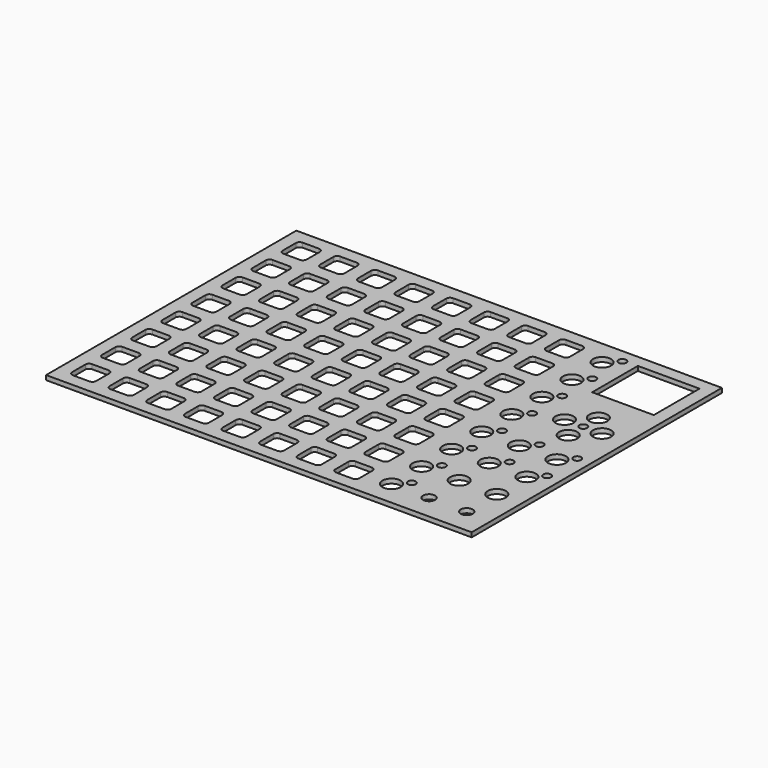
from build123d import *

# Parameters (mm, degrees)
BOX005_W          = 4
BOX005_H          = 200
BOX005_DEPTH      = 3
BOX006_W          = 4
BOX006_H          = 200
BOX006_DEPTH      = 3
BOX007_W          = 283
BOX007_H          = 4
BOX007_DEPTH      = 3
BOX004_W          = 41
BOX004_H          = 38
BOX004_DEPTH      = 10
BOX003_W          = 50
BOX003_H          = 50
BOX003_DEPTH      = 3
CYLINDER002_R     = 6
CYLINDER002_DEPTH = 10
ARRAY004_COUNT    = 4
CYLINDER001_R     = 2.6
CYLINDER001_DEPTH = 10
BOX001_W          = 50
BOX001_H          = 50
BOX001_DEPTH      = 3
CYLINDER_R        = 6
CYLINDER_DEPTH    = 10
BOX_W             = 25
BOX_H             = 25
BOX_DEPTH         = 3
ARRAY003_X_COUNT  = 2
ARRAY003_X_PITCH  = 25
SKETCH001_W       = 25
SKETCH001_H       = 25
PAD_DEPTH         = 3
ARRAY_X_COUNT     = 8
ARRAY_X_PITCH     = 25
ARRAY_Y_COUNT     = 8
ARRAY_Y_PITCH     = 25
CYLINDER003_R     = 4
CYLINDER003_DEPTH = 10
BOX002_W          = 25
BOX002_H          = 25
BOX002_DEPTH      = 3
ARRAY005_X_COUNT  = 2
ARRAY005_X_PITCH  = 25
CYLINDER004_R     = 6
CYLINDER004_DEPTH = 10
CYLINDER005_R     = 2.6
CYLINDER005_DEPTH = 10
BOX009_W          = 25
BOX009_H          = 25
BOX009_DEPTH      = 3
ARRAY006_Y_COUNT  = 8
ARRAY006_Y_PITCH  = 25
ARRAY007_X_COUNT  = 2
ARRAY007_X_PITCH  = 25
ARRAY007_Y_COUNT  = 2
ARRAY007_Y_PITCH  = 25
BOX008_W          = 283
BOX008_H          = 4
BOX008_DEPTH      = 3


with BuildPart() as cube005:
    # Box005 → Box005 (new body)
    with BuildSketch(Plane(origin=(-4, 0, 0), x_dir=(1, 0, 0), z_dir=(0, 0, 1))):
        with Locations((2, 100)):
            Rectangle(BOX005_W, BOX005_H)
    extrude(amount=BOX005_DEPTH)


with BuildPart() as cube006:
    # Box006 → Box006 (new body)
    with BuildSketch(Plane(origin=(275, 0, 0), x_dir=(1, 0, 0), z_dir=(0, 0, 1))):
        with Locations((2, 100)):
            Rectangle(BOX006_W, BOX006_H)
    extrude(amount=BOX006_DEPTH)


with BuildPart() as cube007:
    # Box007 → Box007 (new body)
    with BuildSketch(Plane(origin=(-4, -4, 0), x_dir=(1, 0, 0), z_dir=(0, 0, 1))):
        with Locations((141.5, 2)):
            Rectangle(BOX007_W, BOX007_H)
    extrude(amount=BOX007_DEPTH)


with BuildPart() as cube004:
    # Box004 → Box004 (new body)
    with BuildSketch(Plane(origin=(229.5, 158, 0), x_dir=(1, 0, 0), z_dir=(0, 0, 1))):
        with Locations((20.5, 19)):
            Rectangle(BOX004_W, BOX004_H)
    extrude(amount=BOX004_DEPTH)


with BuildPart() as cut004:
    # Box003 → Box003 (new body)
    with BuildSketch(Plane(origin=(225, 150, 0), x_dir=(1, 0, 0), z_dir=(0, 0, 1))):
        with Locations((25, 25)):
            Rectangle(BOX003_W, BOX003_H)
    extrude(amount=BOX003_DEPTH)

    # Cut004: cut Cube004
    add(cube004.part, mode=Mode.SUBTRACT)


with BuildPart() as array004:
    # Cylinder002 → Cylinder002 (new body)
    with BuildSketch(Plane(origin=(250, 112.5, 0), x_dir=(1, 0, 0), z_dir=(0, 0, 1))):
        Circle(CYLINDER002_R)
    extrude(amount=CYLINDER002_DEPTH)

    # Array004: Array004 ×4 about axis
    array004_axis = Axis((250, 125, 0), (0, 0, 1))


with BuildPart() as array004_1:
    add(array004.part)
    for i in range(1, ARRAY004_COUNT):
        add(array004.part.rotate(array004_axis, i * 360 / ARRAY004_COUNT))


with BuildPart() as cylinder001:
    # Cylinder001 → Cylinder001 (new body)
    with BuildSketch(Plane(origin=(250, 125, 0), x_dir=(1, 0, 0), z_dir=(0, 0, 1))):
        Circle(CYLINDER001_R)
    extrude(amount=CYLINDER001_DEPTH)


with BuildPart() as cut002:
    # Box001 → Box001 (new body)
    with BuildSketch(Plane(origin=(225, 100, 0), x_dir=(1, 0, 0), z_dir=(0, 0, 1))):
        with Locations((25, 25)):
            Rectangle(BOX001_W, BOX001_H)
    extrude(amount=BOX001_DEPTH)

    # Cut001: cut Cylinder001
    add(cylinder001.part, mode=Mode.SUBTRACT)

    # Cut002: cut Array004
    add(array004_1.part, mode=Mode.SUBTRACT)


with BuildPart() as cylinder:
    # Cylinder → Cylinder (new body)
    with BuildSketch(Plane(origin=(237.5, 37.5, 0), x_dir=(1, 0, 0), z_dir=(0, 0, 1))):
        Circle(CYLINDER_R)
    extrude(amount=CYLINDER_DEPTH)


with BuildPart() as array003:
    # Box → Box (new body)
    with BuildSketch(Plane(origin=(225, 25, 0), x_dir=(1, 0, 0), z_dir=(0, 0, 1))):
        with Locations((12.5, 12.5)):
            Rectangle(BOX_W, BOX_H)
    extrude(amount=BOX_DEPTH)

    # Cut: cut Cylinder
    add(cylinder.part, mode=Mode.SUBTRACT)

    # Array003 X: Array003 ×2


with BuildPart() as array003_1:
    add(array003.part)
    with Locations(*[(i * ARRAY003_X_PITCH, 0, 0) for i in range(1, ARRAY003_X_COUNT)]):
        add(array003.part)


with BuildPart() as clone_of_array003:
    # Clone003 base: copy of Array003
    add(array003_1.part)


with BuildPart() as fusion004:
    # Fusion004 base: copy of Array003
    add(array003_1.part)

    # Fusion004: union Clone of Array003
    add(clone_of_array003.part)


with BuildPart() as array:
    # Sketch001 → Pad (new body)
    with BuildSketch(Plane.XY):
        with Locations((12.5, 12.5)):
            Rectangle(SKETCH001_W, SKETCH001_H)
        with BuildLine():
            Line((4.5, 18), (4.5, 7))
            ThreePointArc((4.5, 7), (5.232233, 5.232233), (7, 4.5))
            Line((7, 4.5), (18, 4.5))
            ThreePointArc((18, 4.5), (19.767767, 5.232233), (20.5, 7))
            Line((20.5, 18), (20.5, 7))
            ThreePointArc((20.5, 18), (19.767767, 19.767767), (18, 20.5))
            Line((18, 20.5), (7, 20.5))
            ThreePointArc((7, 20.5), (5.232233, 19.767767), (4.5, 18))
        make_face(mode=Mode.SUBTRACT)
    extrude(amount=PAD_DEPTH)

    # Array X: Array ×8


with BuildPart() as array_1:
    add(array.part)
    with Locations(*[(i * ARRAY_X_PITCH, 0, 0) for i in range(1, ARRAY_X_COUNT)]):
        add(array.part)

    # Array Y: Array ×8


with BuildPart() as array_2:
    add(array_1.part)
    with Locations(*[(0, i * ARRAY_Y_PITCH, 0) for i in range(1, ARRAY_Y_COUNT)]):
        add(array_1.part)


with BuildPart() as clone_of_array:
    # Clone base: copy of Array
    add(array_2.part)


with BuildPart() as fusion:
    # Fusion base: copy of Array
    add(array_2.part)

    # Fusion: union Clone of Array
    add(clone_of_array.part)


with BuildPart() as cylinder003:
    # Cylinder003 → Cylinder003 (new body)
    with BuildSketch(Plane(origin=(237.5, 12.5, 0), x_dir=(1, 0, 0), z_dir=(0, 0, 1))):
        Circle(CYLINDER003_R)
    extrude(amount=CYLINDER003_DEPTH)


with BuildPart() as array005:
    # Box002 → Box002 (new body)
    with BuildSketch(Plane(origin=(225, 0, 0), x_dir=(1, 0, 0), z_dir=(0, 0, 1))):
        with Locations((12.5, 12.5)):
            Rectangle(BOX002_W, BOX002_H)
    extrude(amount=BOX002_DEPTH)

    # Cut003: cut Cylinder003
    add(cylinder003.part, mode=Mode.SUBTRACT)

    # Array005 X: Array005 ×2


with BuildPart() as array005_1:
    add(array005.part)
    with Locations(*[(i * ARRAY005_X_PITCH, 0, 0) for i in range(1, ARRAY005_X_COUNT)]):
        add(array005.part)


with BuildPart() as clone_of_array005:
    # Clone004 base: copy of Array005
    add(array005_1.part)


with BuildPart() as fusion008:
    # Fusion008 base: copy of Array005
    add(array005_1.part)

    # Fusion008: union Clone of Array005
    add(clone_of_array005.part)


with BuildPart() as cylinder004:
    # Cylinder004 → Cylinder004 (new body)
    with BuildSketch(Plane(origin=(212.5, 12.5, -5), x_dir=(1, 0, 0), z_dir=(0, 0, 1))):
        Circle(CYLINDER004_R)
    extrude(amount=CYLINDER004_DEPTH)


with BuildPart() as cylinder005:
    # Cylinder005 → Cylinder005 (new body)
    with BuildSketch(Plane(origin=(220, 20, -5), x_dir=(1, 0, 0), z_dir=(0, 0, 1))):
        Circle(CYLINDER005_R)
    extrude(amount=CYLINDER005_DEPTH)


with BuildPart() as cut006:
    # Box009 → Box009 (new body)
    with BuildSketch(Plane(origin=(200, 0, 0), x_dir=(1, 0, 0), z_dir=(0, 0, 1))):
        with Locations((12.5, 12.5)):
            Rectangle(BOX009_W, BOX009_H)
    extrude(amount=BOX009_DEPTH)

    # Cut005: cut Cylinder005
    add(cylinder005.part, mode=Mode.SUBTRACT)

    # Cut006: cut Cylinder004
    add(cylinder004.part, mode=Mode.SUBTRACT)


with BuildPart() as array006:
    # Array006 base: copy of Cut006
    add(cut006.part)

    # Array006 Y: Array006 ×8


with BuildPart() as array006_1:
    add(array006.part)
    with Locations(*[(0, i * ARRAY006_Y_PITCH, 0) for i in range(1, ARRAY006_Y_COUNT)]):
        add(array006.part)


with BuildPart() as clone_of_array006:
    # Clone006 base: copy of Array006
    add(array006_1.part)


with BuildPart() as array007:
    # Clone005 base: copy of Cut006
    add(cut006.part)


with BuildPart() as array007_1:
    # Clone005 placement: moved
    add(array007.part.moved(Location((25, 50, 0))))

    # Array007 X: Array007 ×2


with BuildPart() as array007_2:
    add(array007_1.part)
    with Locations(*[(i * ARRAY007_X_PITCH, 0, 0) for i in range(1, ARRAY007_X_COUNT)]):
        add(array007_1.part)

    # Array007 Y: Array007 ×2


with BuildPart() as array007_3:
    add(array007_2.part)
    with Locations(*[(0, i * ARRAY007_Y_PITCH, 0) for i in range(1, ARRAY007_Y_COUNT)]):
        add(array007_2.part)


with BuildPart() as clone_of_array007:
    # Clone007 base: copy of Array007
    add(array007_3.part)


with BuildPart() as fusion009:
    # Fusion009 base: copy of Array006
    add(array006_1.part)

    # Fusion009: union Clone of Array006, Array007, Clone of Array007
    add(clone_of_array006.part)
    add(array007_3.part)
    add(clone_of_array007.part)


with BuildPart() as toppanel:
    # Box008 → Box008 (new body)
    with BuildSketch(Plane(origin=(-4, 200, 0), x_dir=(1, 0, 0), z_dir=(0, 0, 1))):
        with Locations((141.5, 2)):
            Rectangle(BOX008_W, BOX008_H)
    extrude(amount=BOX008_DEPTH)

    # Fusion010: union Cube005, Cube006, Cube007, Cut004, Cut002, Fusion004, Fusion, Fusion008, Fusion009
    add(cube005.part)
    add(cube006.part)
    add(cube007.part)
    add(cut004.part)
    add(cut002.part)
    add(fusion004.part)
    add(fusion.part)
    add(fusion008.part)
    add(fusion009.part)


with BuildPart() as toppanel_1:
    # refine placement: moved
    add(toppanel.part.moved(Location((0, -200, 8.8))))


solid = toppanel_1.part
